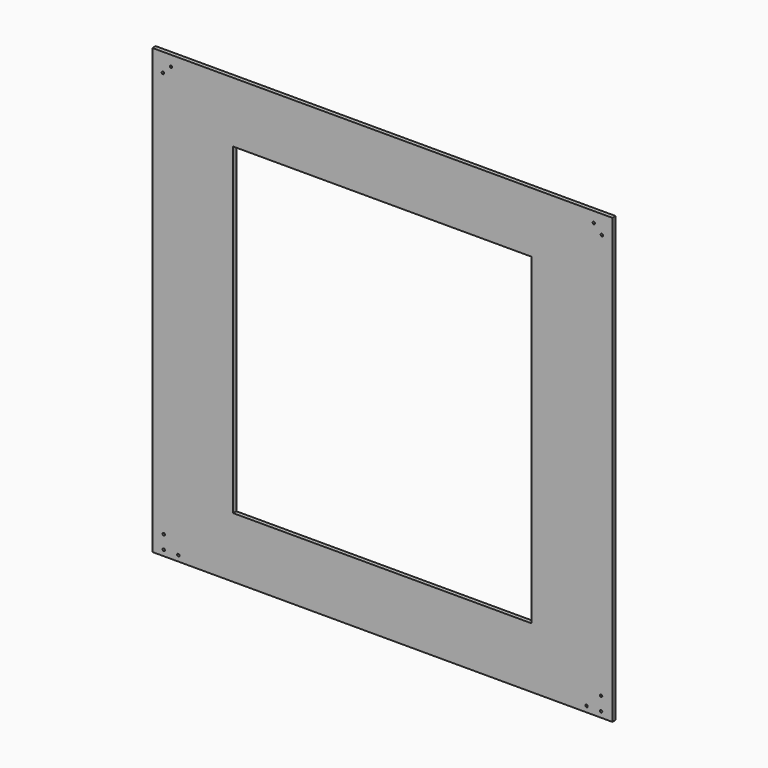
from build123d import *

# Parameters (mm, degrees)
F0_W     = 570
F0_H     = 550
F0_R     = 1.5
F0_W_2   = 370
F0_H_2   = 400
F1_DEPTH = 2.5


with BuildPart() as f1:
    # F0 (on Front) → F1 (new body, symmetric)
    with BuildSketch(Plane.XZ):
        Rectangle(F0_W, F0_H)
        with Locations((-271, -268)):
            Circle(F0_R, mode=Mode.SUBTRACT)
        with Locations((-253, -268)):
            Circle(F0_R, mode=Mode.SUBTRACT)
        with Locations((-271, -251)):
            Circle(F0_R, mode=Mode.SUBTRACT)
        with Locations((253, -268)):
            Circle(F0_R, mode=Mode.SUBTRACT)
        with Locations((271, -268)):
            Circle(F0_R, mode=Mode.SUBTRACT)
        with Locations((271, -251)):
            Circle(F0_R, mode=Mode.SUBTRACT)
        with Locations((-272, 252)):
            Circle(F0_R, mode=Mode.SUBTRACT)
        with Locations((-262, 262)):
            Circle(F0_R, mode=Mode.SUBTRACT)
        Rectangle(F0_W_2, F0_H_2, mode=Mode.SUBTRACT)
        with Locations((272, 252)):
            Circle(F0_R, mode=Mode.SUBTRACT)
        with Locations((262, 262)):
            Circle(F0_R, mode=Mode.SUBTRACT)
    extrude(amount=F1_DEPTH, both=True)


solid = f1.part
